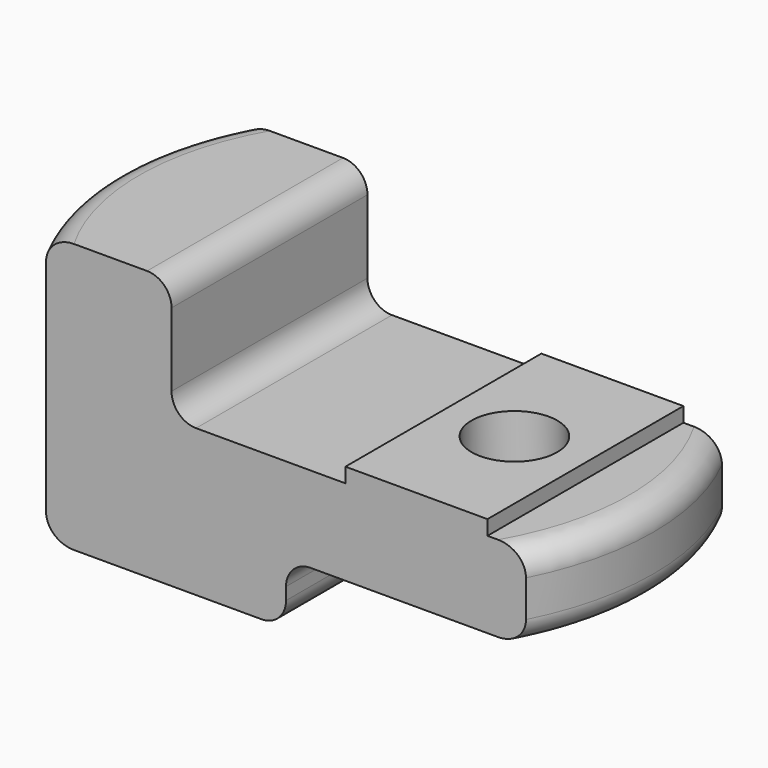
from build123d import *

# Parameters (mm, degrees)
SKETCH_W        = 50
SKETCH_H        = 20
PAD_DEPTH       = 7
SKETCH001_W     = 11.6
SKETCH001_H     = 20
PAD001_DEPTH    = 1.2
SKETCH002_R     = 3.5
POCKET_DEPTH    = 8.201
SKETCH003_R     = 6
POCKET001_DEPTH = 1
CHAMFER_SIZE    = 2.49
SKETCH004_W     = 25
SKETCH004_H     = 20
PAD002_DEPTH    = 5
SKETCH005_R     = 4
POCKET002_DEPTH = 7
SKETCH006_W     = 15.65
SKETCH006_H     = 20
PAD003_DEPTH    = 10
POCKET003_DEPTH = 22.001
FILLET_R        = 2


with BuildPart() as part:
    # Sketch → Pad (new body)
    with BuildSketch(Plane.XY):
        Rectangle(SKETCH_W, SKETCH_H)
    extrude(amount=PAD_DEPTH)

    # Sketch001 (on Face6 of Pad) → Pad001 (join)
    with BuildSketch(Plane.XY.offset(7)):
        with Locations((10.65, 0)):
            Rectangle(SKETCH001_W, SKETCH001_H)
    extrude(amount=PAD001_DEPTH)

    # Sketch002 (on Face4 of Pad001) → Pocket (cut, through all)
    with BuildSketch(Plane(origin=(0, 0, 0), x_dir=(1, 0, 0), z_dir=(0, 0, -1))):
        with Locations((10.65, 0)):
            Circle(SKETCH002_R)
    extrude(amount=-POCKET_DEPTH, mode=Mode.SUBTRACT)

    # Sketch003 (on Face4 of Pocket) → Pocket001 (cut)
    with BuildSketch(Plane(origin=(0, 0, 0), x_dir=(1, 0, 0), z_dir=(0, 0, -1))):
        with Locations((10.65, 0)):
            Circle(SKETCH003_R)
    extrude(amount=-POCKET001_DEPTH, mode=Mode.SUBTRACT)

    # Chamfer
    chamfer_edges = [part.edges().sort_by_distance(p)[0] for p in [
        (7.15, 0, 1),
    ]]
    chamfer(chamfer_edges, length=CHAMFER_SIZE)

    # Sketch004 (on Face5 of Chamfer) → Pad002 (join)
    with BuildSketch(Plane(origin=(0, 0, 0), x_dir=(1, 0, 0), z_dir=(0, 0, -1))):
        with Locations((-12.5, 0)):
            Rectangle(SKETCH004_W, SKETCH004_H)
    extrude(amount=PAD002_DEPTH)

    # Sketch005 (on Face16 of Pad002) → Pocket002 (cut)
    with BuildSketch(Plane(origin=(0, 0, -5), x_dir=(1, 0, 0), z_dir=(0, 0, -1))):
        with Locations((-10.65, 0)):
            Circle(SKETCH005_R)
    extrude(amount=-POCKET002_DEPTH, mode=Mode.SUBTRACT)

    # Sketch006 (on Face20 of Pocket002) → Pad003 (join)
    with BuildSketch(Plane.XY.offset(7)):
        with Locations((-17.175, 0)):
            Rectangle(SKETCH006_W, SKETCH006_H)
    extrude(amount=PAD003_DEPTH)

    # Sketch007 (on Face16 of Pad003) → Pocket003 (cut, through all)
    with BuildSketch(Plane(origin=(0, 0, -5), x_dir=(1, 0, 0), z_dir=(0, 0, -1))):
        with BuildLine():
            ThreePointArc((-19.595918, 10), (-22, 0), (-19.595918, -10))
            Line((-19.595918, -10), (-25, -10))
            Line((-25, -10), (-25, 10))
            Line((-25, 10), (-19.595918, 10))
        make_face()
        with BuildLine():
            ThreePointArc((19.595918, -10), (22, 0), (19.595918, 10))
            Line((19.595918, 10), (25, 10))
            Line((25, 10), (25, -10))
            Line((25, -10), (19.595918, -10))
        make_face()
    extrude(amount=-POCKET003_DEPTH, mode=Mode.SUBTRACT)

    # Fillet
    fillet_edges = [part.edges().sort_by_distance(p)[0] for p in [
        (-22, 0, -5),
        (0, 0, -5),
        (0, 0, 0),
        (22, 0, 0),
        (22, 0, 7),
        (-9.35, 0, 17),
        (-22, 0, 17),
        (-9.35, 0, 7),
    ]]
    fillet(fillet_edges, radius=FILLET_R)


solid = part.part
